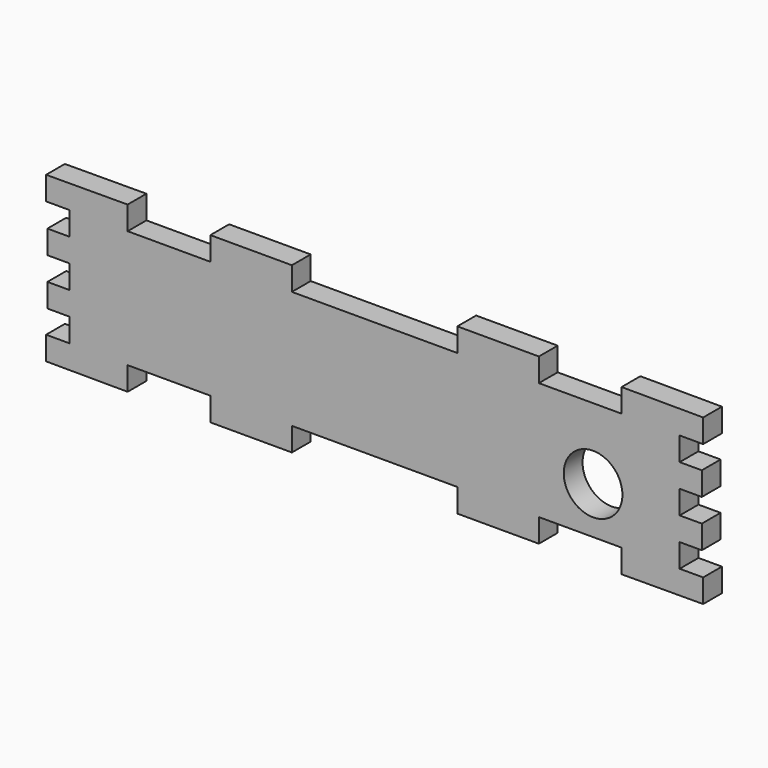
from build123d import *

# Parameters (mm, degrees)
F0_R     = 12.5
F1_DEPTH = 10


with BuildPart() as f1:
    # F0 (on Front) → F1 (new body)
    with BuildSketch(Plane.XZ):
        Polygon((105.25, -35.124361), (140, -35), (140, -25), (130, -25), (130, -15), (139.429527, -15), (139.429527, -5), (130, -5), (130, 5), (139.429527, 5), (139.429527, 15), (130, 15), (130, 25), (140, 25), (140, 35), (105.25, 35.124361), (105.25, 25.124361), (70, 25.124361), (70, 35.124361), (35.25, 35.124361), (35.25, 25.124361), (0, 25.124361), (-35.25, 25.124361), (-35.25, 35.124361), (-70, 35.124361), (-70, 25.124361), (-105.25, 25.124361), (-105.25, 35.124361), (-140, 35), (-140, 25), (-130, 25), (-130, 15), (-139.429527, 15), (-139.429527, 5), (-130, 5), (-130, -5), (-139.429527, -5), (-139.429527, -15), (-130, -15), (-130, -25), (-140, -25), (-140, -35), (-105.25, -35.124361), (-105.25, -25.124361), (-70, -25.124361), (-70, -35.124361), (-35.25, -35.124361), (-35.25, -25.124361), (0, -25.124361), (35.25, -25.124361), (35.25, -35.124361), (70, -35.124361), (70, -25.124361), (105.25, -25.124361), align=None)
        with Locations((93.097828, -5.217392)):
            Circle(F0_R, mode=Mode.SUBTRACT)
    extrude(amount=F1_DEPTH)


solid = f1.part
